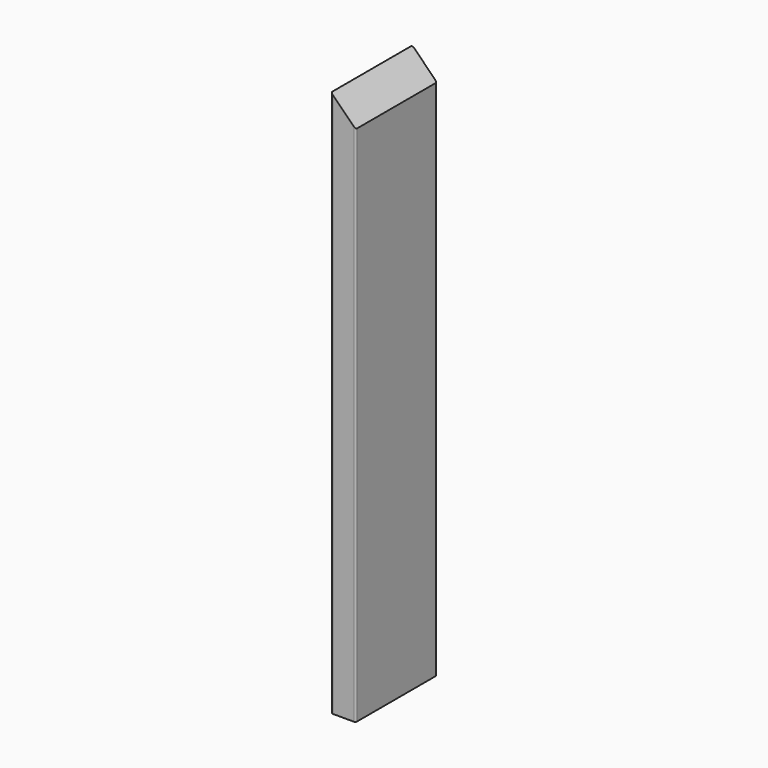
from build123d import *

# Parameters (mm, degrees)
F1_DEPTH = 92.075
F2_R     = 3.175


with BuildPart() as f1:
    # F0 (on Front) → F1 (new body, symmetric)
    with BuildSketch(Plane.XZ):
        Polygon((0, 781.646993), (0, -208.953007), (44.45, -208.953007), (44.45, 737.196993), align=None)
    extrude(amount=F1_DEPTH, both=True)

    # F2
    f2_edges = [f1.edges().sort_by_distance(p)[0] for p in [
        (0, -92.075, 286.346993),
        (44.45, -92.075, 264.121993),
        (44.45, 92.075, 264.121993),
        (0, 92.075, 286.346993),
    ]]
    fillet(f2_edges, radius=F2_R)


solid = f1.part
